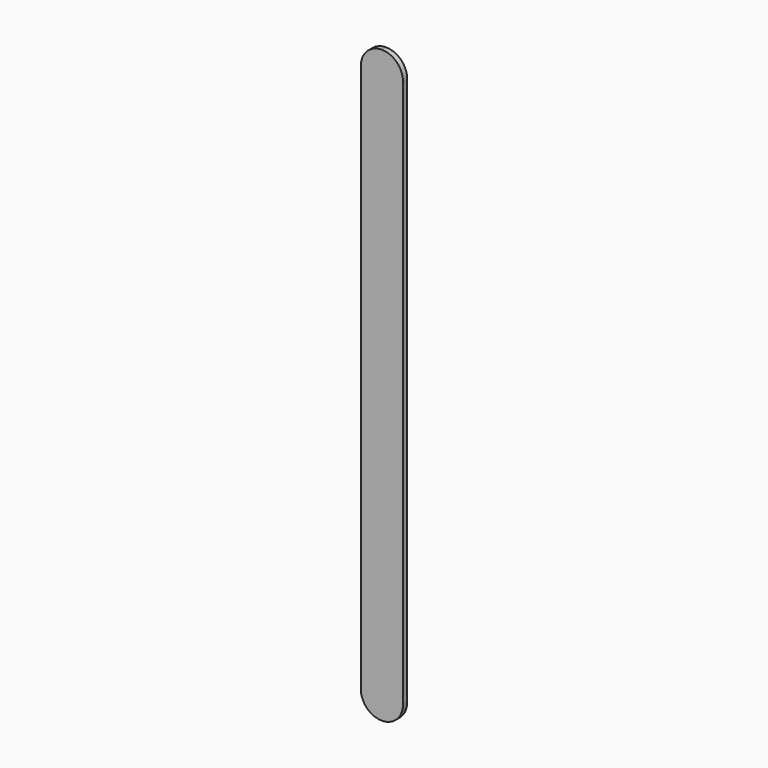
from build123d import *

# Parameters (mm, degrees)
F1_DEPTH = 0.79375


with BuildPart() as f1:
    # F0 (on Front) → F1 (new body, symmetric)
    with BuildSketch(Plane.XZ):
        with BuildLine():
            ThreePointArc((-0.195863, 88.9), (-4.685991, 87.040128), (-6.545863, 82.55))
            Line((-6.545863, 82.55), (-6.545863, -82.55))
            ThreePointArc((-6.545863, -82.55), (-4.685991, -87.040128), (-0.195863, -88.9))
            ThreePointArc((-0.195863, -88.9), (4.294265, -87.040128), (6.154137, -82.55))
            Line((6.154137, -82.55), (6.154137, 82.55))
            ThreePointArc((6.154137, 82.55), (4.294265, 87.040128), (-0.195863, 88.9))
        make_face()
    extrude(amount=F1_DEPTH, both=True)


solid = f1.part
